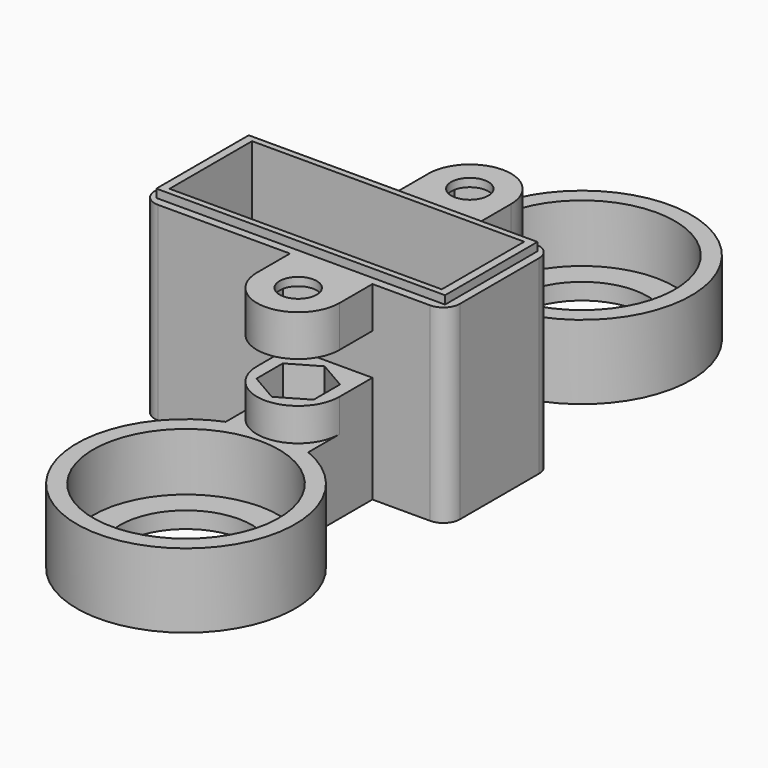
from build123d import *

# Parameters (mm, degrees)
PAD013_DEPTH            = 9
SKETCH034_R             = 11.25
POCKET003_DEPTH         = 7
SKETCH035_R             = 8
POCKET004_DEPTH         = 5
SKETCH040_W             = 16
SKETCH040_H             = 37
PAD016_DEPTH            = 24
SKETCH042_W             = 16
SKETCH042_H             = 7
PAD017_DEPTH            = 12
SKETCH043_W             = 12.5
SKETCH043_H             = 5.25
POCKET008_DEPTH         = 10
SKETCH044_R             = 1
POCKET009_DEPTH         = 4
POCKET009_DEPTH_BACK    = 5
SKETCH045_W             = 12.5
SKETCH045_H             = 25
POCKET010_DEPTH         = 50
SKETCH071_R             = 2.25
PAD027_DEPTH            = 14
SKETCH072_R             = 2.25
POCKET026_DEPTH         = 10
SKETCH073_W             = 16
SKETCH073_H             = 37
SKETCH073_W_2           = 14
SKETCH073_H_2           = 35
POCKET035_DEPTH         = 1
SKETCH084_W             = 10
SKETCH084_H             = 5
POCKET036_DEPTH         = 10
POCKET037_DEPTH         = 4
POCKET038_DEPTH         = 4
SKETCH133_W             = 12.5
SKETCH133_H             = 33
POCKET053_DEPTH         = 12
FILLET_R                = 2
BODY004_PLACEMENT_ANGLE = 90


with BuildPart() as part:
    # Sketch033 → Pad013 (new body)
    with BuildSketch(Plane.XY):
        with BuildLine():
            ThreePointArc((12.269609, 5), (-13.250782, 0), (12.269609, -5))
            Line((12.269609, -5), (47.729609, -5))
            ThreePointArc((47.729609, -5), (73.25, 0), (47.729609, 5))
            Line((12.269609, 5), (47.729609, 5))
        make_face()
    extrude(amount=PAD013_DEPTH)

    # Sketch034 (on Face6 of Pad013) → Pocket003 (cut)
    with BuildSketch(Plane.XY.offset(9)):
        Circle(SKETCH034_R)
        with Locations((60, 0)):
            Circle(SKETCH034_R)
    extrude(amount=-POCKET003_DEPTH, mode=Mode.SUBTRACT)

    # Sketch035 (on Face4 of Pocket003) → Pocket004 (cut)
    with BuildSketch(Plane(origin=(0, 0, 0), x_dir=(1, 0, 0), z_dir=(0, 0, -1))):
        Circle(SKETCH035_R)
        with Locations((60, 0)):
            Circle(SKETCH035_R)
    extrude(amount=-POCKET004_DEPTH, mode=Mode.SUBTRACT)

    # Sketch040 (on Face4 of Pocket004) → Pad016 (join)
    with BuildSketch(Plane(origin=(0, 0, 0), x_dir=(1, 0, 0), z_dir=(0, 0, -1))):
        with Locations((30, -4.5)):
            Rectangle(SKETCH040_W, SKETCH040_H)
    extrude(amount=-PAD016_DEPTH)

    # Sketch042 → Pad017 (join)
    with BuildSketch(Plane(origin=(0, 0, 0), x_dir=(1, 0, 0), z_dir=(0, 0, -1))):
        with Locations((30, -19.5)):
            Rectangle(SKETCH042_W, SKETCH042_H)
        with Locations((30, 10.5)):
            Rectangle(SKETCH042_W, SKETCH042_H)
    extrude(amount=-PAD017_DEPTH)

    # Sketch043 (on Face4 of Pad017) → Pocket008 (cut)
    with BuildSketch(Plane(origin=(0, 0, 0), x_dir=(1, 0, 0), z_dir=(0, 0, -1))):
        with Locations((30, 9.625)):
            Rectangle(SKETCH043_W, SKETCH043_H)
        with Locations((30, -18.625)):
            Rectangle(SKETCH043_W, SKETCH043_H)
    extrude(amount=-POCKET008_DEPTH, mode=Mode.SUBTRACT)

    # Sketch044 (on Face40 of Pocket008) → Pocket009 (cut, two sides)
    with BuildSketch(Plane(origin=(0, 0, 10), x_dir=(1, 0, 0), z_dir=(0, 0, -1))) as pocket009_sk:
        with Locations((30, -19)):
            Circle(SKETCH044_R)
        with Locations((30, 10)):
            Circle(SKETCH044_R)
    extrude(amount=-POCKET009_DEPTH, mode=Mode.SUBTRACT)
    extrude(pocket009_sk.sketch, amount=POCKET009_DEPTH_BACK, mode=Mode.SUBTRACT)

    # Sketch045 (on Face17 of Pocket009) → Pocket010 (cut)
    with BuildSketch(Plane(origin=(0, 0, 0), x_dir=(1, 0, 0), z_dir=(0, 0, -1))):
        with Locations((30, -4.5)):
            Rectangle(SKETCH045_W, SKETCH045_H)
    extrude(amount=-POCKET010_DEPTH, mode=Mode.SUBTRACT)

    # Sketch071 → Pad027 (join)
    with BuildSketch(Plane.XY.offset(9)):
        with BuildLine():
            ThreePointArc((43, -5), (48, 1e-05), (42.999979, 5))
            Line((37, 5), (42.999979, 5))
            Line((37, 5), (37, -5))
            Line((37, -5), (43, -5))
        make_face()
        with Locations((43, 0)):
            Circle(SKETCH071_R, mode=Mode.SUBTRACT)
        with BuildLine():
            ThreePointArc((17, 5), (12, 0), (17, -5))
            Line((23, -5), (17, -5))
            Line((23, 5), (23, -5))
            Line((17, 5), (23, 5))
        make_face()
        with Locations((17, 0)):
            Circle(SKETCH071_R, mode=Mode.SUBTRACT)
    extrude(amount=PAD027_DEPTH)

    # Sketch072 (on Face4 of Pad027) → Pocket026 (cut)
    with BuildSketch(Plane(origin=(0, 0, 0), x_dir=(1, 0, 0), z_dir=(0, 0, -1))):
        with Locations((17, 0)):
            Circle(SKETCH072_R)
        with Locations((43, 0)):
            Circle(SKETCH072_R)
    extrude(amount=-POCKET026_DEPTH, mode=Mode.SUBTRACT)

    # Sketch073 (on Face19 of Pocket026) → Pocket035 (cut)
    with BuildSketch(Plane.XY.offset(24)):
        with Locations((30, 4.5)):
            Rectangle(SKETCH073_W, SKETCH073_H)
        with Locations((30, 4.5)):
            Rectangle(SKETCH073_W_2, SKETCH073_H_2, mode=Mode.SUBTRACT)
    extrude(amount=-POCKET035_DEPTH, mode=Mode.SUBTRACT)

    # Sketch084 (on Face9 of Pocket035) → Pocket036 (cut)
    with BuildSketch(Plane.XZ.offset(5)):
        with Locations((17, 15.5)):
            Rectangle(SKETCH084_W, SKETCH084_H)
        with Locations((43, 15.5)):
            Rectangle(SKETCH084_W, SKETCH084_H)
    extrude(amount=-POCKET036_DEPTH, mode=Mode.SUBTRACT)

    # Sketch085 (on Face21 of Pocket036) → Pocket037 (cut)
    with BuildSketch(Plane.XY.offset(13)):
        Polygon((13, 0), (15, -3.464102), (19, -3.464102), (21, 0), (19, 3.464102), (15, 3.464102), align=None)
        Polygon((39, 0), (41, -3.464102), (45, -3.464102), (47, 0), (45, 3.464102), (41, 3.464102), align=None)
    extrude(amount=-POCKET037_DEPTH, mode=Mode.SUBTRACT)

    # Sketch086 (on Face30 of Pocket037) → Pocket038 (cut)
    with BuildSketch(Plane(origin=(0, 0, 18), x_dir=(1, 0, 0), z_dir=(0, 0, -1))):
        Polygon((13, 0), (15, -3.464102), (19, -3.464102), (21, 0), (19, 3.464102), (15, 3.464102), align=None)
        Polygon((39, 0), (41, -3.464102), (45, -3.464102), (47, 0), (45, 3.464102), (41, 3.464102), align=None)
    extrude(amount=-POCKET038_DEPTH, mode=Mode.SUBTRACT)

    # Sketch133 (on Face52 of Pocket038) → Pocket053 (cut)
    with BuildSketch(Plane.XY.offset(24)):
        with Locations((30, 4.5)):
            Rectangle(SKETCH133_W, SKETCH133_H)
    extrude(amount=-POCKET053_DEPTH, mode=Mode.SUBTRACT)

    # Fillet
    fillet_edges = [part.edges().sort_by_distance(p)[0] for p in [
        (38, -14, 6),
        (38, -14, 17.5),
        (22, -14, 17.5),
        (22, -14, 6),
        (22, 23, 17.5),
        (22, 23, 6),
        (38, 23, 6),
        (38, 23, 17.5),
    ]]
    fillet(fillet_edges, radius=FILLET_R)


with BuildPart() as part_1:
    # Body004 placement: moved
    add(part.part.moved(Location((0, 60, 0))).rotate(Axis((0, 60, 0), (0, 0, 1)), BODY004_PLACEMENT_ANGLE))


solid = part_1.part
